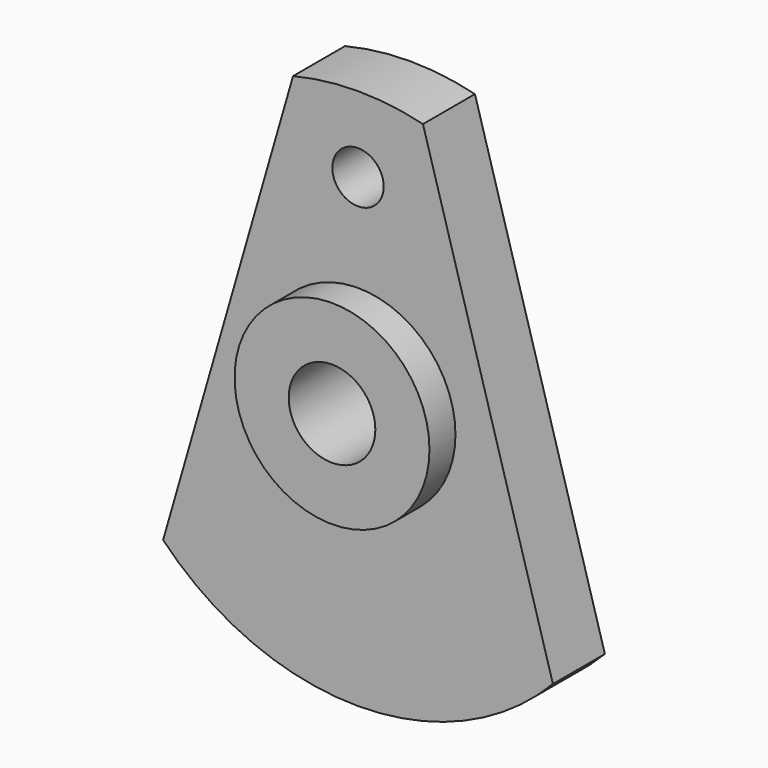
from build123d import *

# Parameters (mm, degrees)
F0_R        = 4.5
F0_R_2      = 2
F1_DEPTH    = 1.5
F0_R_3      = 1.185
F1_FACE_R   = 4.5
F1_FACE_R_2 = 2
F2_DEPTH    = 3


with BuildPart() as f1:
    # F0 (on Front) → F1 (new body)
    with BuildSketch(Plane.XZ):
        Circle(F0_R)
        Circle(F0_R_2, mode=Mode.SUBTRACT)
    extrude(amount=F1_DEPTH)

    # F0 (on Front) + F1_face (on face) → F2 (join)
    with BuildSketch(Plane.XZ):
        with BuildLine():
            Line((-3, 12.134661), (-9, -8.674676))
            ThreePointArc((-9, -8.674676), (0, -12.5), (9, -8.674676))
            Line((9, -8.674676), (3, 12.134661))
            ThreePointArc((3, 12.134661), (0, 12.5), (-3, 12.134661))
        make_face()
        Circle(F0_R, mode=Mode.SUBTRACT)
        with Locations((0, 9)):
            Circle(F0_R_3, mode=Mode.SUBTRACT)
    with BuildSketch(Plane.XZ.offset(1.5)):
        Circle(F1_FACE_R)
        Circle(F1_FACE_R_2, mode=Mode.SUBTRACT)
    extrude(amount=F2_DEPTH)


solid = f1.part
